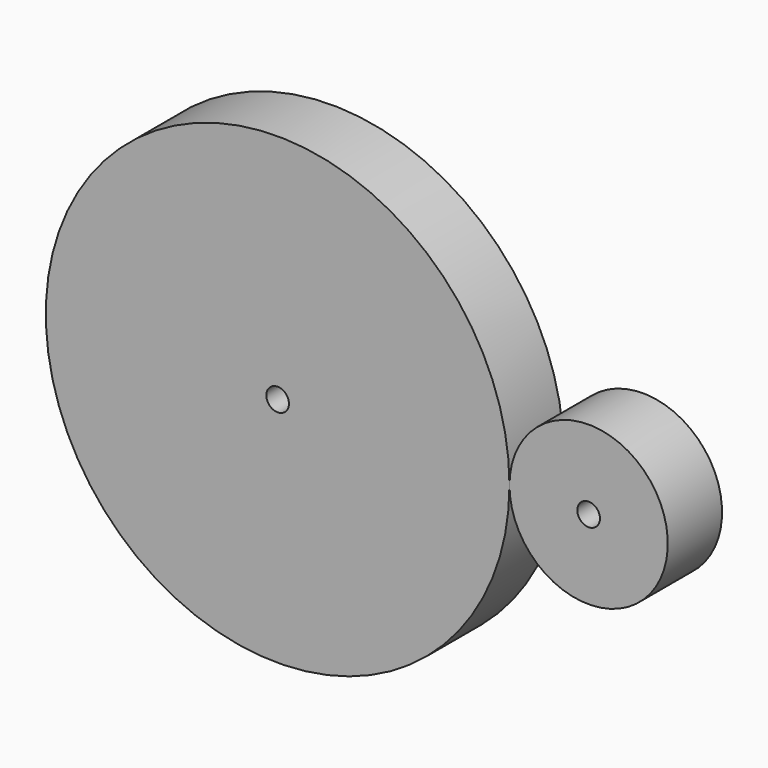
from build123d import *

# Parameters (mm, degrees)
F0_R     = 20.5
F0_R_2   = 1
F1_DEPTH = 6
F2_DEPTH = 6


with BuildPart() as f1:
    # F0 (on Front) → F1 (new body)
    with BuildSketch(Plane.XZ):
        Circle(F0_R)
        Circle(F0_R_2, mode=Mode.SUBTRACT)
    extrude(amount=F1_DEPTH)

    # F0 (on Front) → F2 (join)
    with BuildSketch(Plane.XZ):
        with BuildLine():
            ThreePointArc((34.5, 0), (27.5, 7), (20.5, 0))
            ThreePointArc((20.5, 0), (27.5, -7), (34.5, 0))
        make_face()
        with BuildLine():
            ThreePointArc((28.5, 0), (27.5, -1), (26.5, 0))
            ThreePointArc((26.5, 0), (27.5, 1), (28.5, 0))
        make_face(mode=Mode.SUBTRACT)
    extrude(amount=F2_DEPTH)


solid = f1.part
